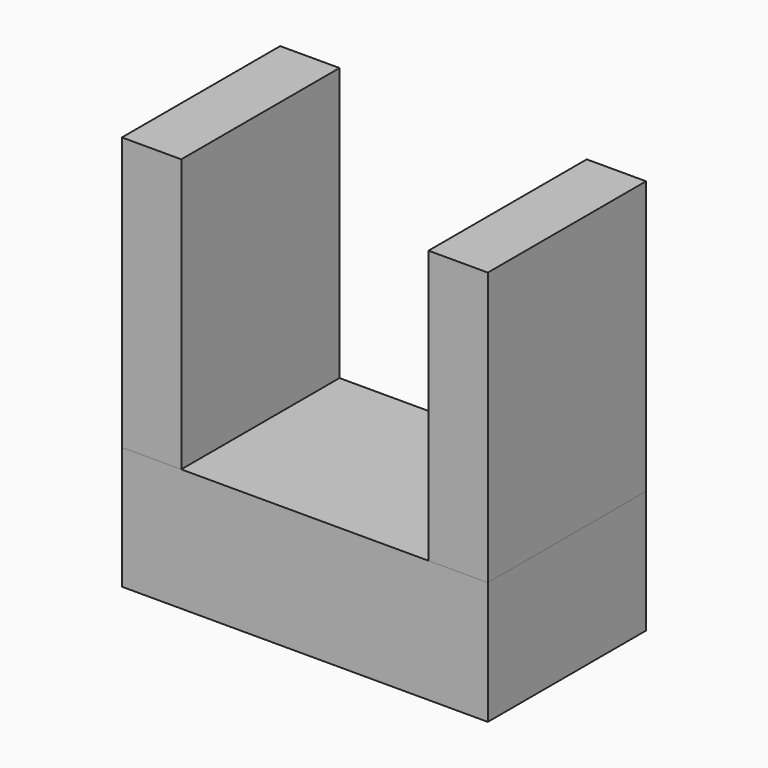
from build123d import *

# Parameters (mm, degrees)
F0_W     = 7.62
F0_H     = 25.4
F1_DEPTH = 35.052
F0_W_2   = 31.75
F2_DEPTH = 15.748


with BuildPart() as f1:
    # F0 (on Top) → F1 (new body)
    with BuildSketch(Plane.XY):
        with Locations((-19.685, 0)):
            Rectangle(F0_W, F0_H)
        with Locations((19.685, 0)):
            Rectangle(F0_W, F0_H)
    extrude(amount=F1_DEPTH)


with BuildPart() as f2:
    # F0 (on Top) → F2 (new body)
    with BuildSketch(Plane.XY):
        with Locations((-19.685, 0)):
            Rectangle(F0_W, F0_H)
        with Locations((19.685, 0)):
            Rectangle(F0_W, F0_H)
        Rectangle(F0_W_2, F0_H)
    extrude(amount=-F2_DEPTH)


solid = Compound([f1.part, f2.part])
